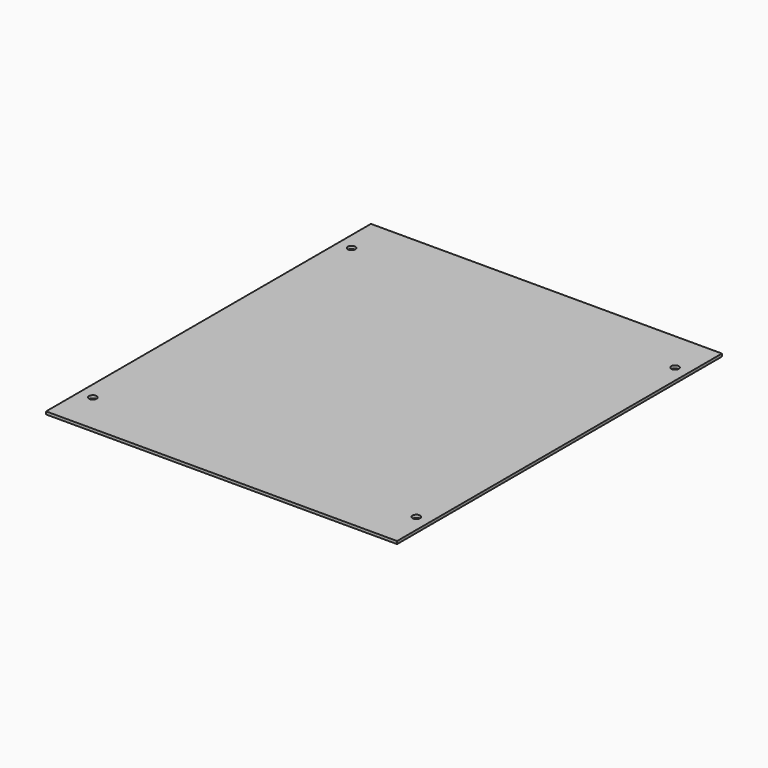
from build123d import *

# Parameters (mm, degrees)
CYLINDER003_R     = 2.75
CYLINDER003_DEPTH = 10
CYLINDER002_R     = 2.75
CYLINDER002_DEPTH = 10
CYLINDER001_R     = 2.75
CYLINDER001_DEPTH = 10
CYLINDER_R        = 2.75
CYLINDER_DEPTH    = 10
BOX_W             = 255
BOX_H             = 295
BOX_DEPTH         = 2


with BuildPart() as cylinder003:
    # Cylinder003 → Cylinder003 (new body)
    with BuildSketch(Plane(origin=(245, 265, -5), x_dir=(1, 0, 0), z_dir=(0, 0, 1))):
        Circle(CYLINDER003_R)
    extrude(amount=CYLINDER003_DEPTH)


with BuildPart() as cylinder002:
    # Cylinder002 → Cylinder002 (new body)
    with BuildSketch(Plane(origin=(245, 30, -5), x_dir=(1, 0, 0), z_dir=(0, 0, 1))):
        Circle(CYLINDER002_R)
    extrude(amount=CYLINDER002_DEPTH)


with BuildPart() as cylinder001:
    # Cylinder001 → Cylinder001 (new body)
    with BuildSketch(Plane(origin=(10, 265, -5), x_dir=(1, 0, 0), z_dir=(0, 0, 1))):
        Circle(CYLINDER001_R)
    extrude(amount=CYLINDER001_DEPTH)


with BuildPart() as cylinder:
    # Cylinder → Cylinder (new body)
    with BuildSketch(Plane(origin=(10, 30, -5), x_dir=(1, 0, 0), z_dir=(0, 0, 1))):
        Circle(CYLINDER_R)
    extrude(amount=CYLINDER_DEPTH)


with BuildPart() as bottom:
    # Box → Box (new body)
    with BuildSketch(Plane.XY.offset(0)):
        with Locations((127.5, 147.5)):
            Rectangle(BOX_W, BOX_H)
    extrude(amount=BOX_DEPTH)

    # Cut: cut Cylinder
    add(cylinder.part, mode=Mode.SUBTRACT)

    # Cut001: cut Cylinder001
    add(cylinder001.part, mode=Mode.SUBTRACT)

    # Cut002: cut Cylinder002
    add(cylinder002.part, mode=Mode.SUBTRACT)

    # Cut003: cut Cylinder003
    add(cylinder003.part, mode=Mode.SUBTRACT)


solid = bottom.part
